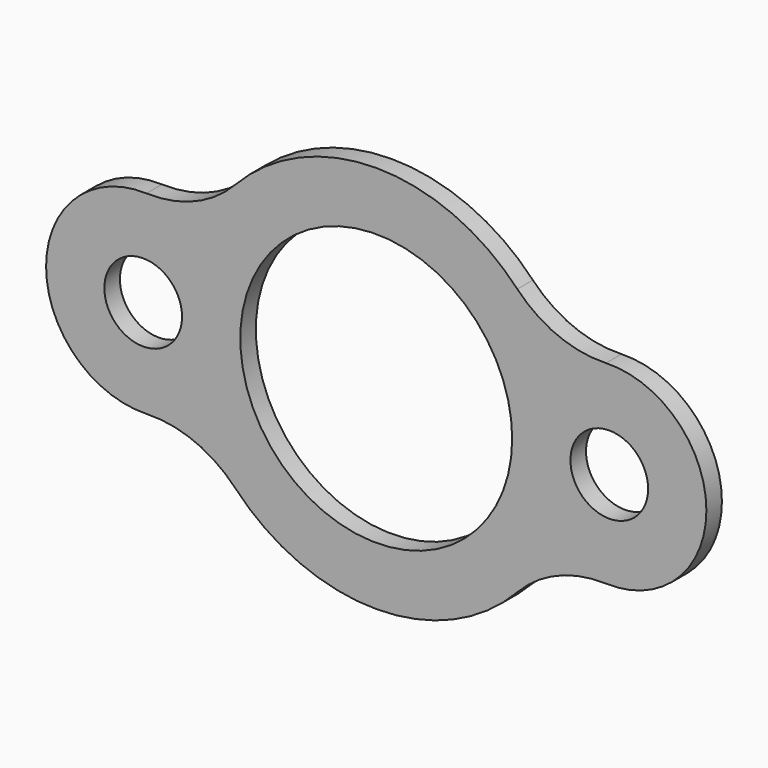
from build123d import *

# Parameters (mm, degrees)
F0_R     = 12.7
F0_R_2   = 44.45
F1_DEPTH = 6.35


with BuildPart() as f1:
    # F0 (on Front) → F1 (new body)
    with BuildSketch(Plane.XZ):
        with BuildLine():
            ThreePointArc((-75.117614, -31.731545), (-59.347524, -34.564632), (-46.136719, -43.630874))
            ThreePointArc((-46.136719, -43.630874), (0, -63.5), (46.136719, -43.630874))
            ThreePointArc((46.136719, -43.630874), (59.347524, -34.564632), (75.117614, -31.731545))
            ThreePointArc((75.117614, -31.731545), (107.95, 0), (75.117614, 31.731545))
            ThreePointArc((75.117614, 31.731545), (59.347524, 34.564632), (46.136719, 43.630874))
            ThreePointArc((46.136719, 43.630874), (0, 63.5), (-46.136719, 43.630874))
            ThreePointArc((-46.136719, 43.630874), (-59.347524, 34.564632), (-75.117614, 31.731545))
            ThreePointArc((-75.117614, 31.731545), (-107.95, 0), (-75.117614, -31.731545))
        make_face()
        with Locations((-76.2, 0)):
            Circle(F0_R, mode=Mode.SUBTRACT)
        Circle(F0_R_2, mode=Mode.SUBTRACT)
        with Locations((76.2, 0)):
            Circle(F0_R, mode=Mode.SUBTRACT)
    extrude(amount=-F1_DEPTH)


solid = f1.part
